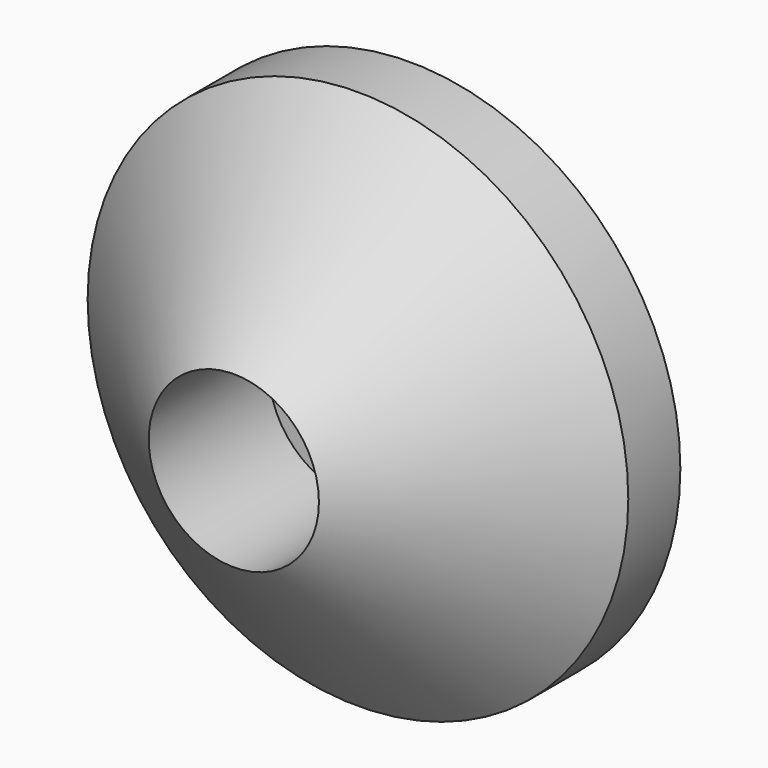
from build123d import *

# Parameters (mm, degrees)
F0_R      = 13.5
F1_DEPTH  = 3.25
F3_R      = 4.25
F1_FACE_R = 13.5
F5_R      = 4.25
F6_DEPTH  = 7.5


with BuildPart() as f1:
    # F0 (on Front) → F1 (new body)
    with BuildSketch(Plane.XZ):
        Circle(F0_R)
    extrude(amount=F1_DEPTH)

    # F3 (on offset) → F4 section 0
    with BuildSketch(Plane.XZ.offset(11)):
        Circle(F3_R)
    # F1_face (on face) → F4 section 1
    with BuildSketch(Plane.XZ.offset(3.25)):
        Circle(F1_FACE_R)
    loft()

    # F5 (on face) → F6 (cut)
    with BuildSketch(Plane.XZ.offset(11)):
        Circle(F5_R)
    extrude(amount=-F6_DEPTH, mode=Mode.SUBTRACT)


solid = f1.part
